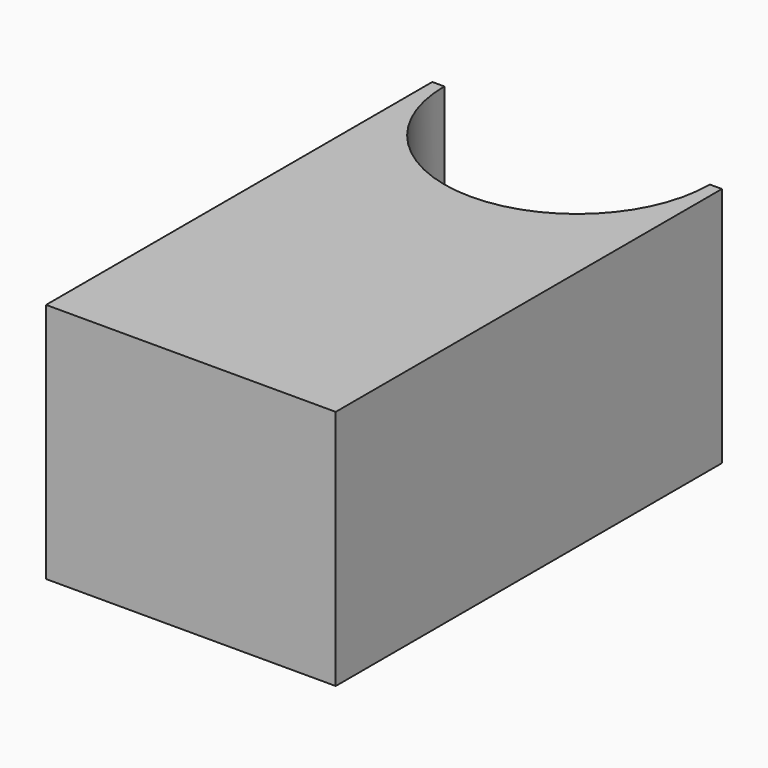
from build123d import *

# Parameters (mm, degrees)
F0_W     = 30.48
F0_H     = 50.8
F1_DEPTH = 25.4
F3_DEPTH = 25.4


with BuildPart() as f1:
    # F0 (on Top) → F1 (new body)
    with BuildSketch(Plane.XY):
        with Locations((0, 25.4)):
            Rectangle(F0_W, F0_H)
    extrude(amount=F1_DEPTH)

    # F2 (on face) → F3 (cut)
    with BuildSketch(Plane.XY.offset(25.4)):
        with BuildLine():
            ThreePointArc((-13.97, 50.8), (0, 36.83), (13.97, 50.8))
            Line((13.97, 50.8), (-13.97, 50.8))
        make_face()
    extrude(amount=-F3_DEPTH, mode=Mode.SUBTRACT)


solid = f1.part
